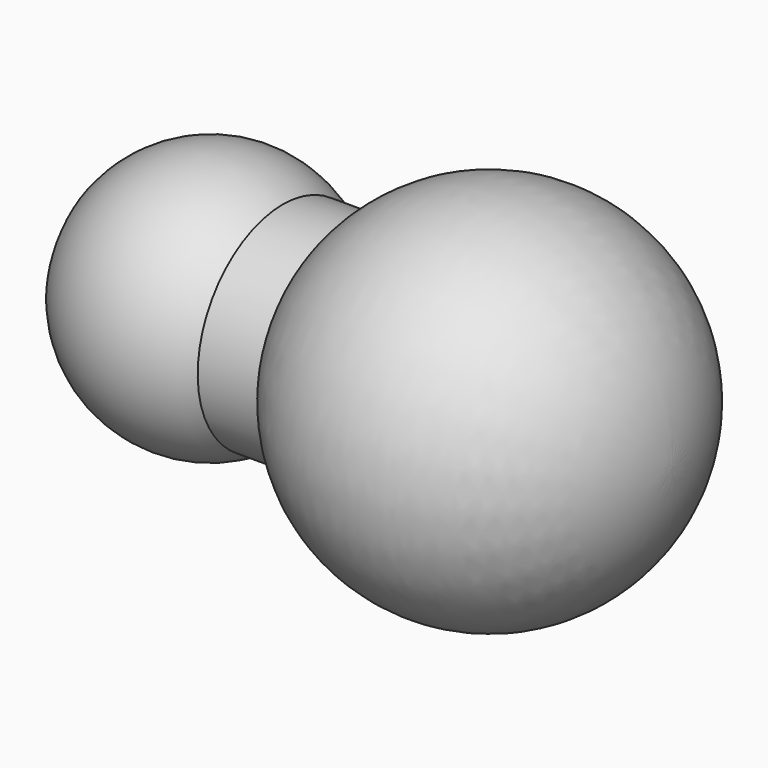
from build123d import *


with BuildPart() as f1:
    # F0 (on Front) → F1 (revolve)
    with BuildSketch(Plane.XZ):
        with BuildLine():
            Line((29.880675, 0), (44.496719, 0))
            ThreePointArc((44.496719, 0), (35.704225, 12.088054), (21.495793, 7.445913))
            Line((21.495793, 7.445913), (17.310998, 7.445913))
            ThreePointArc((17.310998, 7.445913), (10.93388, 8.899104), (5.257611, 5.649585))
            Line((5.257611, 5.649585), (5.257611, 0))
            Line((5.257611, 0), (12.260121, 0))
            Line((12.260121, 0), (17.260065, 0))
            Line((17.260065, 0), (29.880675, 0))
        make_face()
    revolve(axis=Axis((24.877165, 0, 0), (1, 0, 0)))


solid = f1.part
